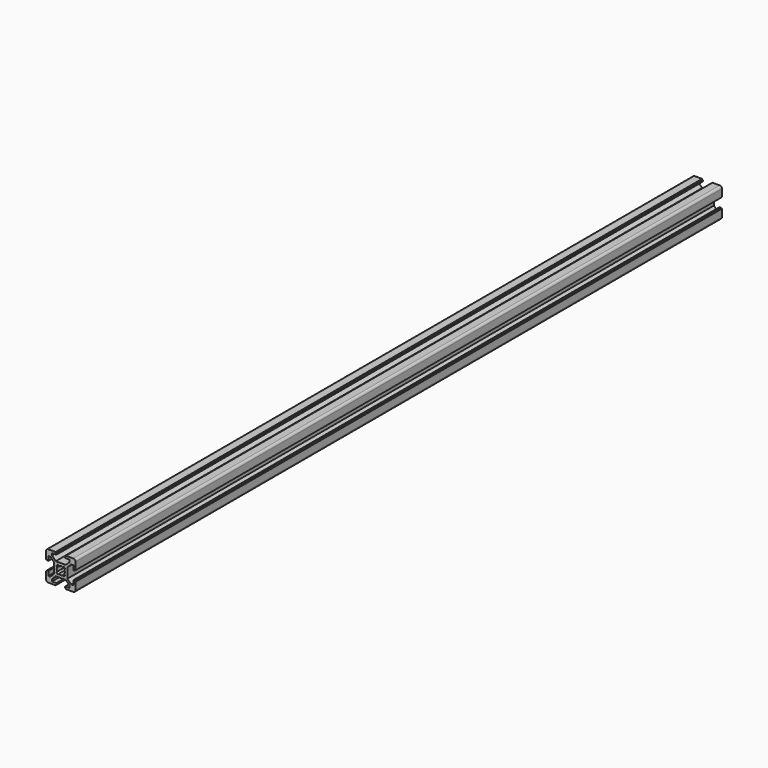
from build123d import *

# Parameters (mm, degrees)
F1_DEPTH = 550


with BuildPart() as f1:
    # F0 (on Front) → F1 (new body)
    with BuildSketch(Plane.XZ):
        with BuildLine():
            Line((3.43934, 4.5), (0, 4.5))
            Line((0, 4.5), (-3.43934, 4.5))
            Line((-3.43934, 4.5), (-6, 7.06066))
            Line((-6, 7.06066), (-6, 8.5))
            Line((-6, 8.5), (-3, 8.5))
            Line((-3, 8.5), (-3, 9.5))
            Line((-3, 9.5), (-3.5, 9.5))
            Line((-3.5, 9.5), (-3.5, 10))
            Line((-3.5, 10), (-8.5, 10))
            ThreePointArc((-8.5, 10), (-9.56066, 9.56066), (-10, 8.5))
            Line((-10, 8.5), (-10, 3.5))
            Line((-10, 3.5), (-9.5, 3.5))
            Line((-9.5, 3.5), (-9.5, 3))
            Line((-9.5, 3), (-8.5, 3))
            Line((-8.5, 3), (-8.5, 6))
            Line((-8.5, 6), (-7.06066, 6))
            Line((-7.06066, 6), (-4.5, 3.43934))
            Line((-4.5, 3.43934), (-4.5, 0))
            Line((-4.5, 0), (-4.5, -3.43934))
            Line((-4.5, -3.43934), (-7.06066, -6))
            Line((-7.06066, -6), (-8.5, -6))
            Line((-8.5, -6), (-8.5, -3))
            Line((-8.5, -3), (-9.5, -3))
            Line((-9.5, -3), (-9.5, -3.5))
            Line((-9.5, -3.5), (-10, -3.5))
            Line((-10, -3.5), (-10, -8.5))
            ThreePointArc((-10, -8.5), (-9.56066, -9.56066), (-8.5, -10))
            Line((-8.5, -10), (-3.5, -10))
            Line((-3.5, -10), (-3.5, -9.5))
            Line((-3.5, -9.5), (-3, -9.5))
            Line((-3, -9.5), (-3, -8.5))
            Line((-3, -8.5), (-6, -8.5))
            Line((-6, -8.5), (-6, -7.06066))
            Line((-6, -7.06066), (-3.43934, -4.5))
            Line((-3.43934, -4.5), (0, -4.5))
            Line((0, -4.5), (3.43934, -4.5))
            Line((3.43934, -4.5), (6, -7.06066))
            Line((6, -7.06066), (6, -8.5))
            Line((6, -8.5), (3, -8.5))
            Line((3, -8.5), (3, -9.5))
            Line((3, -9.5), (3.5, -9.5))
            Line((3.5, -9.5), (3.5, -10))
            Line((3.5, -10), (8.5, -10))
            ThreePointArc((8.5, -10), (9.56066, -9.56066), (10, -8.5))
            Line((10, -8.5), (10, -3.5))
            Line((10, -3.5), (9.5, -3.5))
            Line((9.5, -3.5), (9.5, -3))
            Line((9.5, -3), (8.5, -3))
            Line((8.5, -3), (8.5, -6))
            Line((8.5, -6), (7.06066, -6))
            Line((7.06066, -6), (4.5, -3.43934))
            Line((4.5, -3.43934), (4.5, 0))
            Line((4.5, 0), (4.5, 3.43934))
            Line((4.5, 3.43934), (7.06066, 6))
            Line((7.06066, 6), (8.5, 6))
            Line((8.5, 6), (8.5, 3))
            Line((8.5, 3), (9.5, 3))
            Line((9.5, 3), (9.5, 3.5))
            Line((9.5, 3.5), (10, 3.5))
            Line((10, 3.5), (10, 8.5))
            ThreePointArc((10, 8.5), (9.56066, 9.56066), (8.5, 10))
            Line((8.5, 10), (3.5, 10))
            Line((3.5, 10), (3.5, 9.5))
            Line((3.5, 9.5), (3, 9.5))
            Line((3, 9.5), (3, 8.5))
            Line((3, 8.5), (6, 8.5))
            Line((6, 8.5), (6, 7.06066))
            Line((6, 7.06066), (3.43934, 4.5))
        make_face()
        with BuildLine():
            ThreePointArc((-1.340499, 2.401159), (-0.692573, 2.661361), (0, 2.75))
            ThreePointArc((0, 2.75), (0.692573, 2.661361), (1.340499, 2.401159))
            Line((1.340499, 2.401159), (1.962753, 3.023413))
            Line((1.962753, 3.023413), (3.023413, 1.962753))
            Line((3.023413, 1.962753), (2.401159, 1.340499))
            ThreePointArc((2.401159, 1.340499), (2.661361, 0.692573), (2.75, 0))
            ThreePointArc((2.75, 0), (2.661361, -0.692573), (2.401159, -1.340499))
            Line((2.401159, -1.340499), (3.023413, -1.962753))
            Line((3.023413, -1.962753), (1.962753, -3.023413))
            Line((1.962753, -3.023413), (1.340499, -2.401159))
            ThreePointArc((1.340499, -2.401159), (0.692573, -2.661361), (0, -2.75))
            ThreePointArc((0, -2.75), (-0.692573, -2.661361), (-1.340499, -2.401159))
            Line((-1.340499, -2.401159), (-1.962753, -3.023413))
            Line((-1.962753, -3.023413), (-3.023413, -1.962753))
            Line((-3.023413, -1.962753), (-2.401159, -1.340499))
            ThreePointArc((-2.401159, -1.340499), (-2.661361, -0.692573), (-2.75, 0))
            ThreePointArc((-2.75, 0), (-2.661361, 0.692573), (-2.401159, 1.340499))
            Line((-2.401159, 1.340499), (-3.023413, 1.962753))
            Line((-3.023413, 1.962753), (-1.962753, 3.023413))
            Line((-1.962753, 3.023413), (-1.340499, 2.401159))
        make_face(mode=Mode.SUBTRACT)
    extrude(amount=F1_DEPTH)


solid = f1.part
